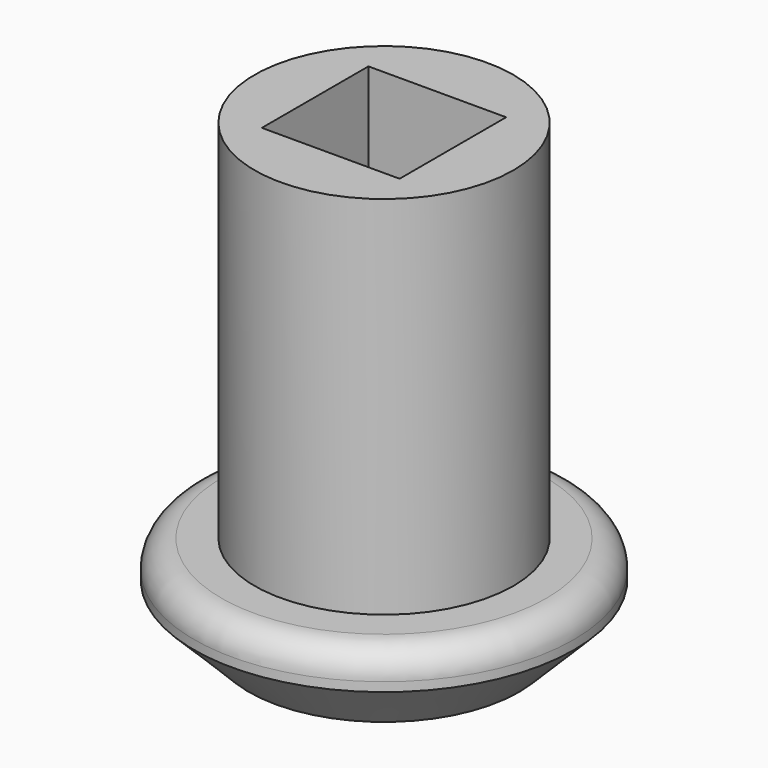
from build123d import *

# Parameters (mm, degrees)
F0_R     = 26.378327
F1_DEPTH = 12.7
F2_R     = 3.81
F3_SIZE  = 7.62
F4_R     = 17.961474
F5_DEPTH = 50.8
F6_W     = 19.1245
F6_H     = 18.48925
F7_DEPTH = 50.8


with BuildPart() as f1:
    # F0 (on Top) → F1 (new body)
    with BuildSketch(Plane.XY):
        Circle(F0_R)
    extrude(amount=-F1_DEPTH)

    # F2
    f2_edges = [f1.edges().sort_by_distance(p)[0] for p in [
        (-26.378327, 0, 0),
    ]]
    fillet(f2_edges, radius=F2_R)

    # F3
    f3_edges = [f1.edges().sort_by_distance(p)[0] for p in [
        (-26.378327, 0, -12.7),
    ]]
    chamfer(f3_edges, length=F3_SIZE)

    # F4 (on face) → F5 (join)
    with BuildSketch(Plane.XY):
        Circle(F4_R)
    extrude(amount=F5_DEPTH)

    # F6 (on face) → F7 (cut)
    with BuildSketch(Plane.XY.offset(50.8)):
        Rectangle(F6_W, F6_H)
    extrude(amount=-F7_DEPTH, mode=Mode.SUBTRACT)


solid = f1.part
